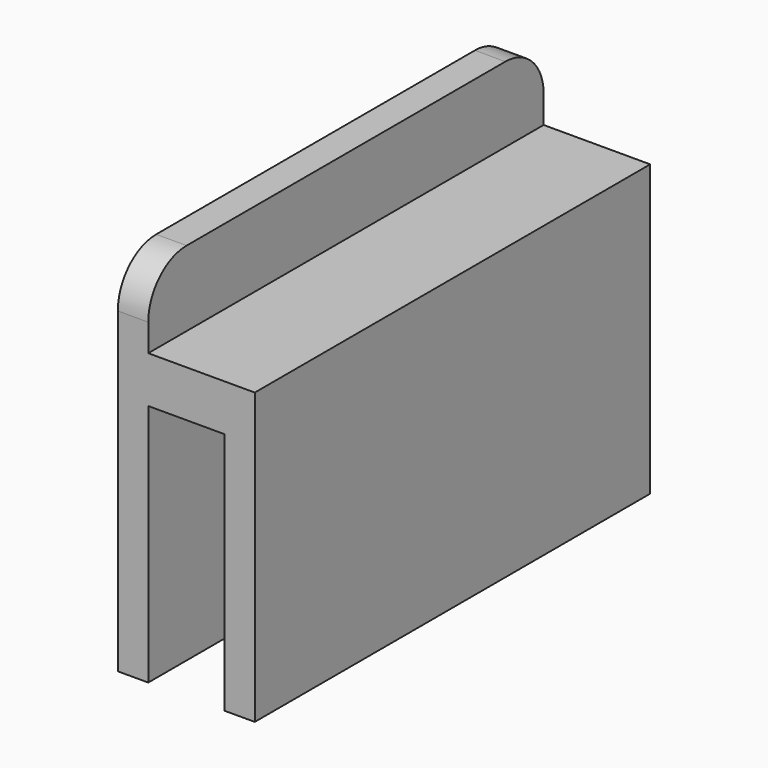
from build123d import *

# Parameters (mm, degrees)
F1_DEPTH = 51.562
F2_R     = 5


with BuildPart() as f1:
    # F0 (on Front) → F1 (new body)
    with BuildSketch(Plane.XZ):
        Polygon((-3.175, 0), (0, 0), (0, 30.25), (-3.97002, 30.25), (-11.1125, 30.25), (-11.1125, 38.1), (-14.2875, 38.1), (-14.2875, 0), (-11.1125, 0), (-11.1125, 25.4), (-3.175, 25.4), align=None)
    extrude(amount=F1_DEPTH)

    # F2
    f2_edges = [f1.edges().sort_by_distance(p)[0] for p in [
        (-12.7, -51.562, 38.1),
        (-12.7, 0, 38.1),
    ]]
    fillet(f2_edges, radius=F2_R)


solid = f1.part
